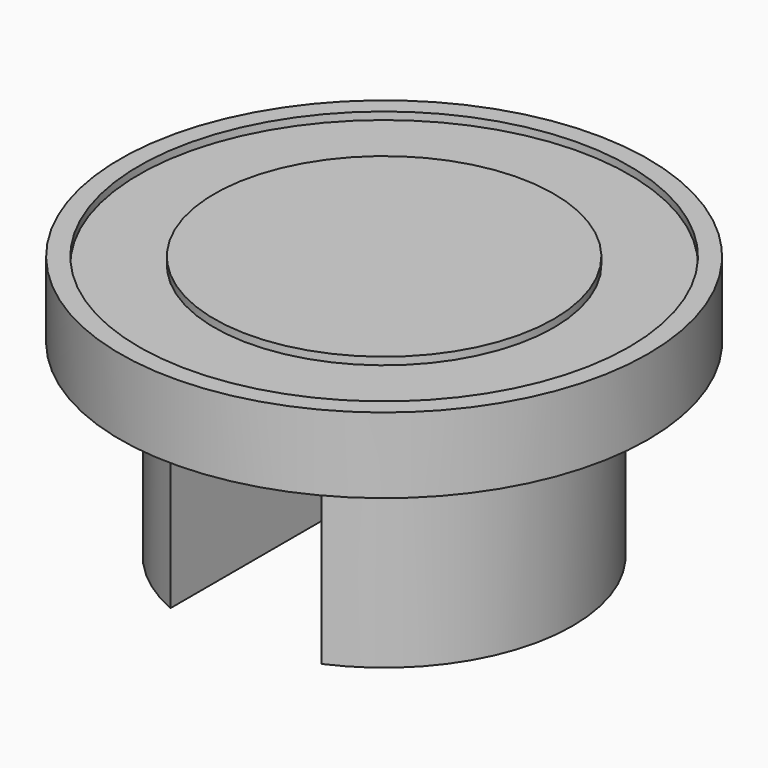
from build123d import *

# Parameters (mm, degrees)
F0_R     = 35
F1_DEPTH = 10
F2_R     = 25
F3_DEPTH = 25
F4_W     = 20
F4_H     = 80
F5_DEPTH = 25
F7_R     = 32.5
F7_R_2   = 22.5
F8_DEPTH = 1


with BuildPart() as f1:
    # F0 (on Top) → F1 (new body)
    with BuildSketch(Plane.XY):
        Circle(F0_R)
    extrude(amount=F1_DEPTH)

    # F2 (on Top) → F3 (join)
    with BuildSketch(Plane.XY):
        Circle(F2_R)
    extrude(amount=-F3_DEPTH)

    # F4 (on Top) → F5 (cut)
    with BuildSketch(Plane.XY):
        Rectangle(F4_W, F4_H)
    extrude(amount=-F5_DEPTH, mode=Mode.SUBTRACT)

    # F7 (on offset) → F8 (cut)
    with BuildSketch(Plane.XY.offset(10)):
        Circle(F7_R)
        Circle(F7_R_2, mode=Mode.SUBTRACT)
    extrude(amount=-F8_DEPTH, mode=Mode.SUBTRACT)


solid = f1.part
